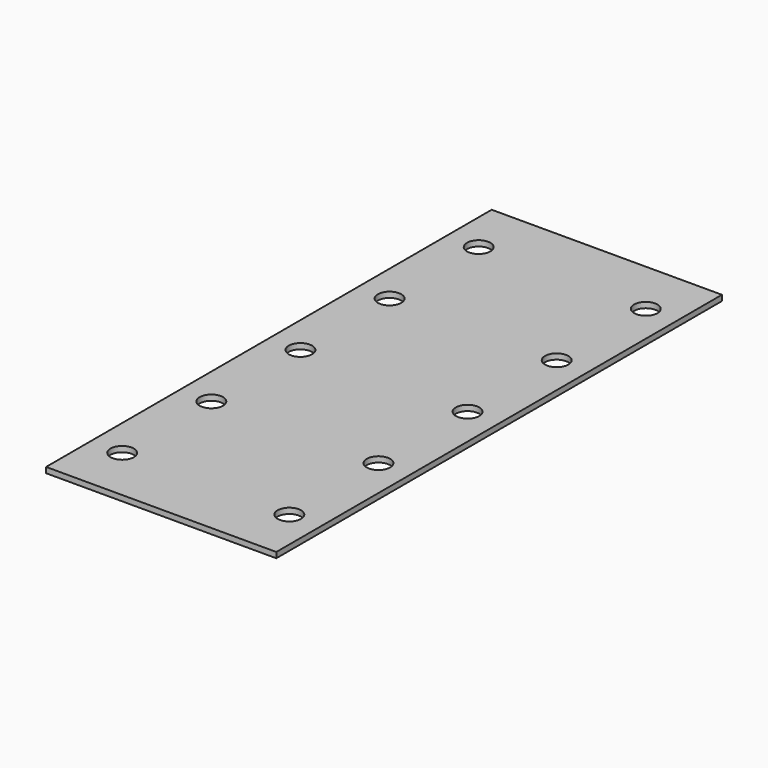
from build123d import *

# Parameters (mm, degrees)
F0_R     = 3.15
F1_DEPTH = 1.5


with BuildPart() as f1:
    # F0 (on Top) → F1 (new body)
    with BuildSketch(Plane.XY):
        Polygon((31.999999, -68.953477), (31.999999, 81.046523), (4.999999, 81.046523), (-3.000001, 81.046523), (-30.000001, 81.046523), (-30.000001, -68.953477), (-3.000001, -68.953477), (4.999999, -68.953477), align=None)
        with Locations((-21.500001, -53.953477)):
            Circle(F0_R, mode=Mode.SUBTRACT)
        with Locations((-21.500001, -23.953477)):
            Circle(F0_R, mode=Mode.SUBTRACT)
        with Locations((23.499999, -53.953477)):
            Circle(F0_R, mode=Mode.SUBTRACT)
        with Locations((23.499999, -23.953477)):
            Circle(F0_R, mode=Mode.SUBTRACT)
        with Locations((-21.500001, 6.046523)):
            Circle(F0_R, mode=Mode.SUBTRACT)
        with Locations((-21.500001, 36.046523)):
            Circle(F0_R, mode=Mode.SUBTRACT)
        with Locations((-21.500001, 66.046523)):
            Circle(F0_R, mode=Mode.SUBTRACT)
        with Locations((23.499999, 6.046523)):
            Circle(F0_R, mode=Mode.SUBTRACT)
        with Locations((23.499999, 36.046523)):
            Circle(F0_R, mode=Mode.SUBTRACT)
        with Locations((23.499999, 66.046523)):
            Circle(F0_R, mode=Mode.SUBTRACT)
    extrude(amount=F1_DEPTH)


solid = f1.part
